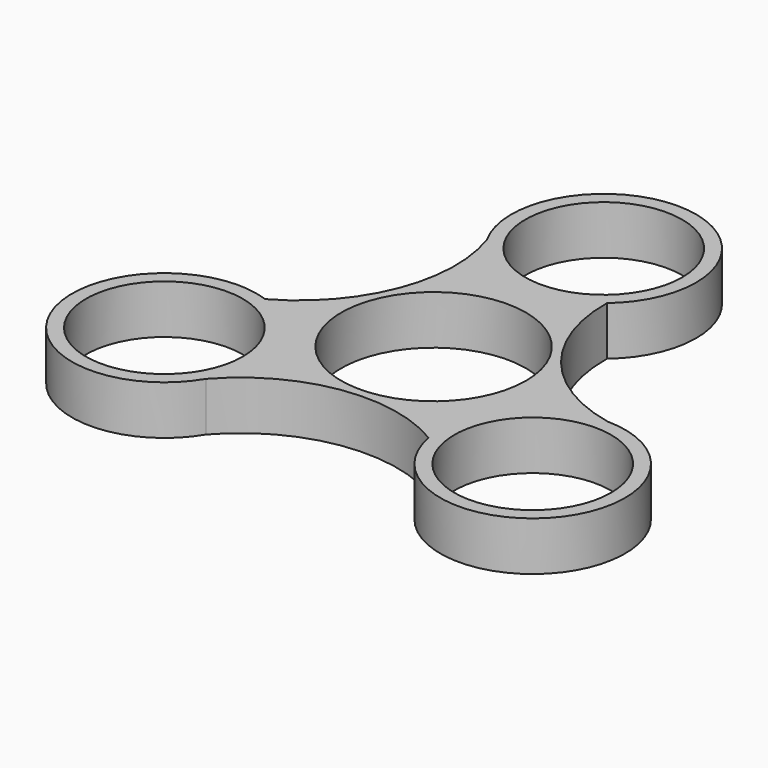
from build123d import *

# Parameters (mm, degrees)
F0_R     = 11.2
F0_R_2   = 13.2
F1_DEPTH = 7


with BuildPart() as f1:
    # F0 (on Top) → F1 (new body)
    with BuildSketch(Plane.XY):
        with BuildLine():
            ThreePointArc((26.475972, -1.993725), (13.469922, 5.91384), (8.528828, 20.310801))
            ThreePointArc((8.528828, 20.310801), (2.343248, 43.375827), (-11.511369, 23.925727))
            ThreePointArc((-11.511369, 23.925727), (-11.856497, 8.708375), (-21.854084, -2.769219))
            ThreePointArc((-21.854084, -2.769219), (-38.736192, -19.658602), (-14.964603, -21.932001))
            ThreePointArc((-14.964603, -21.932001), (-1.613425, -14.622215), (13.325256, -17.541582))
            ThreePointArc((13.325256, -17.541582), (36.392945, -23.717226), (26.475972, -1.993725))
        make_face()
        with Locations((-26.314595, -15.192739)):
            Circle(F0_R, mode=Mode.SUBTRACT)
        with Locations((26.314595, -15.192739)):
            Circle(F0_R, mode=Mode.SUBTRACT)
        Circle(F0_R_2, mode=Mode.SUBTRACT)
        with Locations((0, 30.385477)):
            Circle(F0_R, mode=Mode.SUBTRACT)
    extrude(amount=F1_DEPTH)


solid = f1.part
